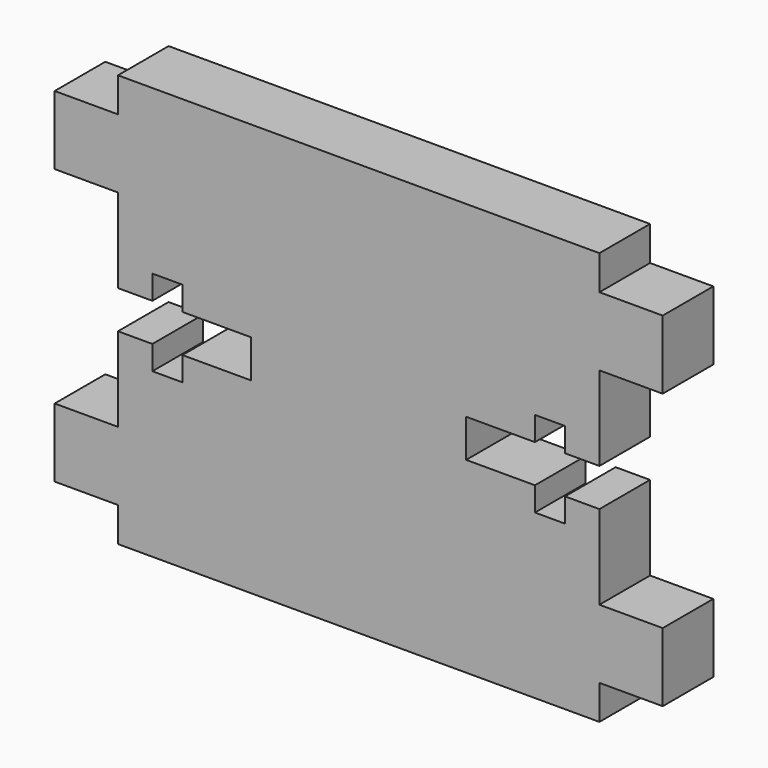
from build123d import *

# Parameters (mm, degrees)
F1_DEPTH = 5.842


with BuildPart() as f1:
    # F0 (on Front) → F1 (new body)
    with BuildSketch(Plane.XZ):
        Polygon((22.225, 19.05), (-22.225, 19.05), (-22.225, 15.875), (-28.067, 15.875), (-28.067, 9.525), (-22.225, 9.525), (-22.225, 1.7526), (-19.05, 1.7526), (-19.05, 3.96875), (-16.271875, 3.96875), (-16.271875, 1.7526), (-9.921875, 1.7526), (-9.921875, -1.7526), (-16.271875, -1.7526), (-16.271875, -3.96875), (-19.05, -3.96875), (-19.05, -1.7526), (-22.225, -1.7526), (-22.225, -9.525), (-28.067, -9.525), (-28.067, -15.875), (-22.225, -15.875), (-22.225, -19.05), (22.225, -19.05), (22.225, -15.875), (28.067, -15.875), (28.067, -9.525), (22.225, -9.525), (22.225, -1.7526), (19.05, -1.7526), (19.05, -3.96875), (16.271875, -3.96875), (16.271875, -1.7526), (9.921875, -1.7526), (9.921875, 1.7526), (16.271875, 1.7526), (16.271875, 3.96875), (19.05, 3.96875), (19.05, 1.7526), (22.225, 1.7526), (22.225, 9.525), (28.067, 9.525), (28.067, 15.875), (22.225, 15.875), align=None)
    extrude(amount=F1_DEPTH)


solid = f1.part
